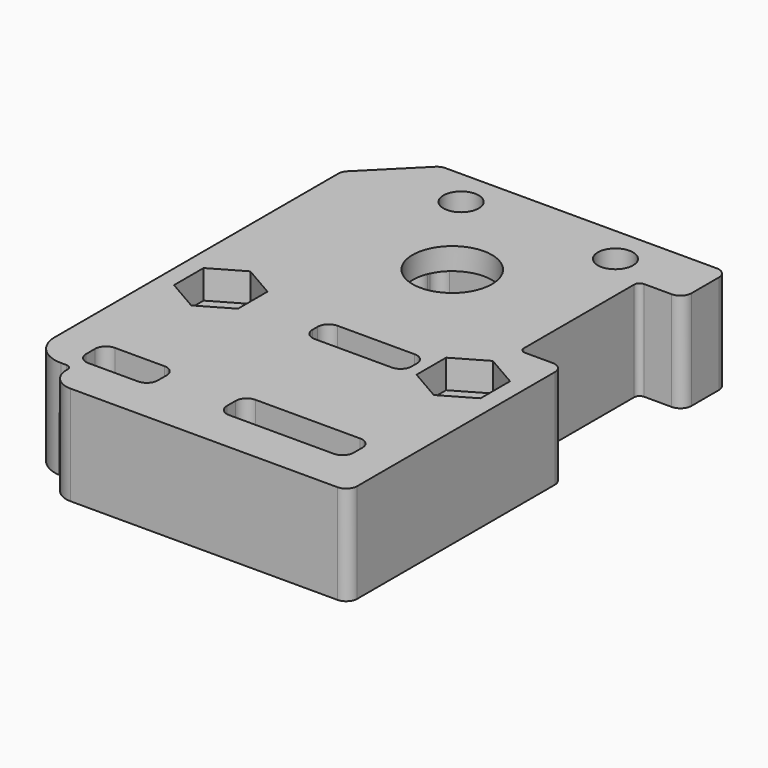
from build123d import *

# Parameters (mm, degrees)
SKETCH_R        = 3.6
SKETCH_R_2      = 1.6
SKETCH_W        = 6.5
SKETCH_H        = 3
SKETCH_W_2      = 11.5
PAD_DEPTH       = 9
POCKET_DEPTH    = 2.6
POCKET001_DEPTH = 7
SKETCH003_W     = 25.7
SKETCH003_H     = 13
POCKET002_DEPTH = 3
SKETCH004_R     = 1.8
POCKET003_DEPTH = 2
SKETCH005_W     = 9
SKETCH005_H     = 2.6
POCKET004_DEPTH = 9.001
CHAMFER_SIZE    = 5
FILLET_R        = 1
FILLET001_R     = 0.99
FILLET002_R     = 0.5


with BuildPart() as part:
    # Sketch → Pad (new body)
    with BuildSketch(Plane.XY):
        with BuildLine():
            Line((15.5, -31.15), (15.5, -6.75))
            Line((15.5, -6.75), (11.5, -6.75))
            Line((11.5, -6.75), (11.5, 6.75))
            Line((11.5, 6.75), (15.5, 6.75))
            Line((15.5, 6.75), (15.5, 11.85))
            Line((15.5, 11.85), (-15.5, 11.85))
            Line((-15.5, 11.85), (-15.5, -25.7))
            ThreePointArc((-15.5, -25.7), (-14.679899, -27.679899), (-12.7, -28.5))
            Line((-11.7, -28.5), (-12.7, -28.5))
            Line((-11.7, -29.15), (-11.7, -28.5))
            ThreePointArc((-11.7, -29.15), (-11.114214, -30.564214), (-9.7, -31.15))
            Line((-9.7, -31.15), (15.5, -31.15))
        make_face()
        Circle(SKETCH_R, mode=Mode.SUBTRACT)
        with Locations((-11, -12.5)):
            Circle(SKETCH_R_2, mode=Mode.SUBTRACT)
        with Locations((11, -12.5)):
            Circle(SKETCH_R_2, mode=Mode.SUBTRACT)
        with Locations((-6, 8.5)):
            Circle(SKETCH_R_2, mode=Mode.SUBTRACT)
        with Locations((8, 8.5)):
            Circle(SKETCH_R_2, mode=Mode.SUBTRACT)
        with Locations((-8.91, -25.81)):
            Rectangle(SKETCH_W, SKETCH_H, mode=Mode.SUBTRACT)
        with Locations((6.35, -25.81)):
            Rectangle(SKETCH_W_2, SKETCH_H, mode=Mode.SUBTRACT)
    extrude(amount=PAD_DEPTH)

    # Sketch001 (on Face28 of Pad) → Pocket (cut)
    with BuildSketch(Plane.XY.offset(9)):
        Polygon((-8.1, -14.174316), (-8.1, -10.825684), (-11, -9.151368), (-13.9, -10.825684), (-13.9, -14.174316), (-11, -15.848632), align=None)
        Polygon((13.9, -14.174316), (13.9, -10.825684), (11, -9.151368), (8.1, -10.825684), (8.1, -14.174316), (11, -15.848632), align=None)
    extrude(amount=-POCKET_DEPTH, mode=Mode.SUBTRACT)

    # Sketch002 → Pocket001 (cut)
    with BuildSketch(Plane(origin=(0, 0, 0), x_dir=(1, 0, 0), z_dir=(0, 0, -1))):
        Polygon((8.25, -4), (6.25, -4), (6.25, -6.25), (-6.25, -6.25), (-6.25, -4), (-8.25, -4), (-8.25, 4), (-6.25, 4), (-6.25, 6.25), (6.25, 6.25), (6.25, 4), (8.25, 4), align=None)
    extrude(amount=-POCKET001_DEPTH, mode=Mode.SUBTRACT)

    # Sketch003 → Pocket002 (cut)
    with BuildSketch(Plane(origin=(0, 0, 0), x_dir=(1, 0, 0), z_dir=(0, 0, -1))):
        with Locations((0, 22)):
            Rectangle(SKETCH003_W, SKETCH003_H)
    extrude(amount=-POCKET002_DEPTH, mode=Mode.SUBTRACT)

    # Sketch004 (on Face56 of Pocket002) → Pocket003 (cut)
    with BuildSketch(Plane(origin=(0, 0, 3), x_dir=(1, 0, 0), z_dir=(0, 0, -1))):
        with Locations((0, 22)):
            Circle(SKETCH004_R)
        with BuildLine():
            Line((1.5, 15.5), (12.85, 15.5))
            Line((12.85, 15.5), (12.85, 20.5))
            Line((12.85, 20.5), (3.5, 20.5))
            ThreePointArc((3.5, 20.5), (2.085786, 19.914214), (1.5, 18.5))
            Line((1.5, 18.5), (1.5, 15.5))
        make_face()
        with BuildLine():
            Line((-1.5, 15.5), (-12.85, 15.5))
            Line((-12.85, 15.5), (-12.85, 20.5))
            Line((-12.85, 20.5), (-3.5, 20.5))
            ThreePointArc((-1.5, 18.5), (-2.085786, 19.914214), (-3.5, 20.5))
            Line((-1.5, 18.5), (-1.5, 15.5))
        make_face()
        with BuildLine():
            Line((12.85, 23.5), (3.5, 23.5))
            ThreePointArc((1.5, 25.5), (2.085786, 24.085786), (3.5, 23.5))
            Line((1.5, 25.5), (1.5, 28.5))
            Line((1.5, 28.5), (12.85, 28.5))
            Line((12.85, 28.5), (12.85, 23.5))
        make_face()
        with BuildLine():
            Line((-12.85, 23.5), (-3.5, 23.5))
            ThreePointArc((-3.5, 23.5), (-2.085786, 24.085786), (-1.5, 25.5))
            Line((-1.5, 25.5), (-1.5, 28.5))
            Line((-1.5, 28.5), (-12.85, 28.5))
            Line((-12.85, 28.5), (-12.85, 23.5))
        make_face()
    extrude(amount=-POCKET003_DEPTH, mode=Mode.SUBTRACT)

    # Sketch005 (on Face5 of Pocket003) → Pocket004 (cut, through all)
    with BuildSketch(Plane.XY.offset(9)):
        with Locations((2.54, -13.11)):
            Rectangle(SKETCH005_W, SKETCH005_H)
    extrude(amount=-POCKET004_DEPTH, mode=Mode.SUBTRACT)

    # Chamfer
    chamfer_edges = [part.edges().sort_by_distance(p)[0] for p in [
        (-15.5, 11.85, 4.5),
    ]]
    chamfer(chamfer_edges, length=CHAMFER_SIZE)

    # Fillet
    fillet_edges = [part.edges().sort_by_distance(p)[0] for p in [
        (-10.5, 11.85, 4.5),
        (-15.5, 6.85, 4.5),
        (15.5, 11.85, 4.5),
        (15.5, -6.75, 4.5),
        (15.5, 6.75, 4.5),
        (15.5, -31.15, 4.5),
        (-12.16, -24.31, 7),
        (-5.66, -24.31, 7),
        (-5.66, -27.31, 7),
        (12.1, -27.31, 7),
        (12.1, -24.31, 7),
        (0.6, -24.31, 6),
        (0.6, -27.31, 6),
        (-12.16, -27.31, 7),
        (-1.96, -11.81, 4.5),
        (7.04, -11.81, 4.5),
        (7.04, -14.41, 4.5),
        (-1.96, -14.41, 4.5),
    ]]
    fillet(fillet_edges, radius=FILLET_R)

    # Fillet001
    fillet001_edges = [part.edges().sort_by_distance(p)[0] for p in [
        (-6.25, -4, 3.5),
        (-8.25, -4, 3.5),
        (-6.25, -6.25, 3.5),
        (6.25, -6.25, 3.5),
        (6.25, -4, 3.5),
        (8.25, -4, 3.5),
        (-8.25, 4, 3.5),
        (-6.25, 4, 3.5),
        (-6.25, 6.25, 3.5),
        (8.25, 4, 3.5),
        (6.25, 4, 3.5),
        (6.25, 6.25, 3.5),
    ]]
    fillet(fillet001_edges, radius=FILLET001_R)

    # Fillet002
    fillet002_edges = [part.edges().sort_by_distance(p)[0] for p in [
        (11.5, 6.75, 4.5),
        (11.5, -6.75, 4.5),
        (-12.85, -15.5, 4),
        (-12.85, -15.5, 1.5),
        (-12.85, -20.5, 4),
        (-12.85, -23.5, 4),
        (12.85, -20.5, 4),
        (12.85, -15.5, 4),
        (12.85, -15.5, 1.5),
        (12.85, -28.5, 4),
        (12.85, -28.5, 1.5),
        (12.85, -23.5, 4),
        (1.5, -27.304987, 4),
        (-11.7, -28.5, 7),
    ]]
    fillet(fillet002_edges, radius=FILLET002_R)


solid = part.part
